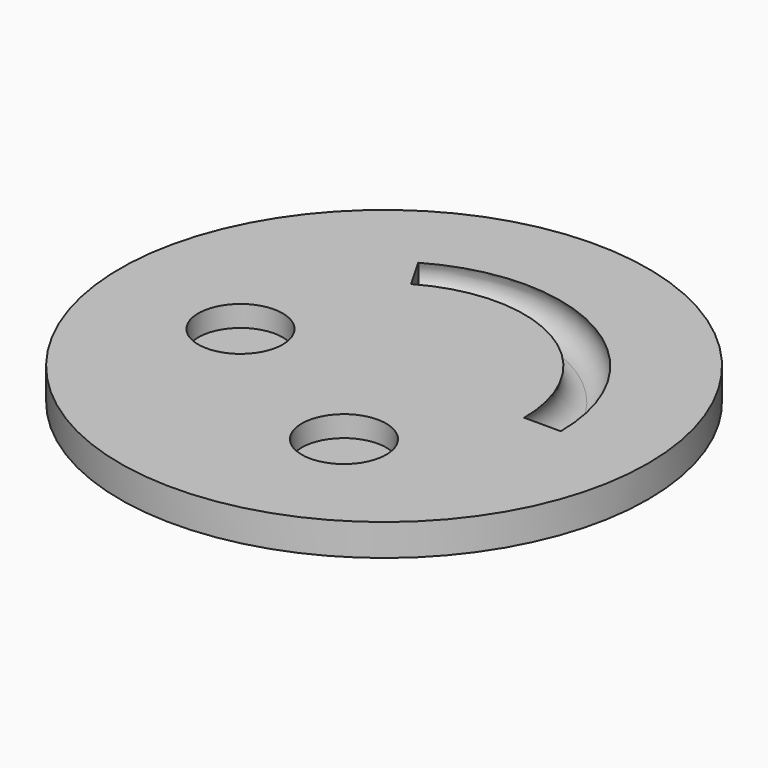
from build123d import *

# Parameters (mm, degrees)
CYLINDER001_R               = 4
CYLINDER001_DEPTH           = 4
CYLINDER001_PLACEMENT_ANGLE = 45
CYLINDER002_R               = 4
CYLINDER002_DEPTH           = 10
TORUS_R                     = 2
TORUS_ANGLE                 = 120
CYLINDER_R                  = 25
CYLINDER_DEPTH              = 3


with BuildPart() as cilindre001:
    # Cylinder001 → Cylinder001 (new body)
    with BuildSketch(Plane.XY):
        Circle(CYLINDER001_R)
    extrude(amount=CYLINDER001_DEPTH)


with BuildPart() as cilindre001_1:
    # Cylinder001 placement: moved
    add(cilindre001.part.moved(Location((5, -11, 1))).rotate(Axis((5, -11, 1), (0, 0, 1)), CYLINDER001_PLACEMENT_ANGLE))


with BuildPart() as cilindre002:
    # Cylinder002 → Cylinder002 (new body)
    with BuildSketch(Plane(origin=(-12, -2, 1), x_dir=(1, 0, 0), z_dir=(0, 0, 1))):
        Circle(CYLINDER002_R)
    extrude(amount=CYLINDER002_DEPTH)


with BuildPart() as torus:
    # Torus → Torus (revolve)
    with BuildSketch(Plane(origin=(0, 0, 2), x_dir=(1, 0, 0), z_dir=(0, -1, 0))):
        with Locations((15, 0)):
            Circle(TORUS_R)
    revolve(axis=Axis((0, 0, 2), (0, 0, 1)), revolution_arc=TORUS_ANGLE)


with BuildPart() as cut002:
    # Cylinder → Cylinder (new body)
    with BuildSketch(Plane.XY):
        Circle(CYLINDER_R)
    extrude(amount=CYLINDER_DEPTH)

    # Cut: cut Torus
    add(torus.part, mode=Mode.SUBTRACT)

    # Cut001: cut Cilindre002
    add(cilindre002.part, mode=Mode.SUBTRACT)

    # Cut002: cut Cilindre001
    add(cilindre001_1.part, mode=Mode.SUBTRACT)


solid = cut002.part
